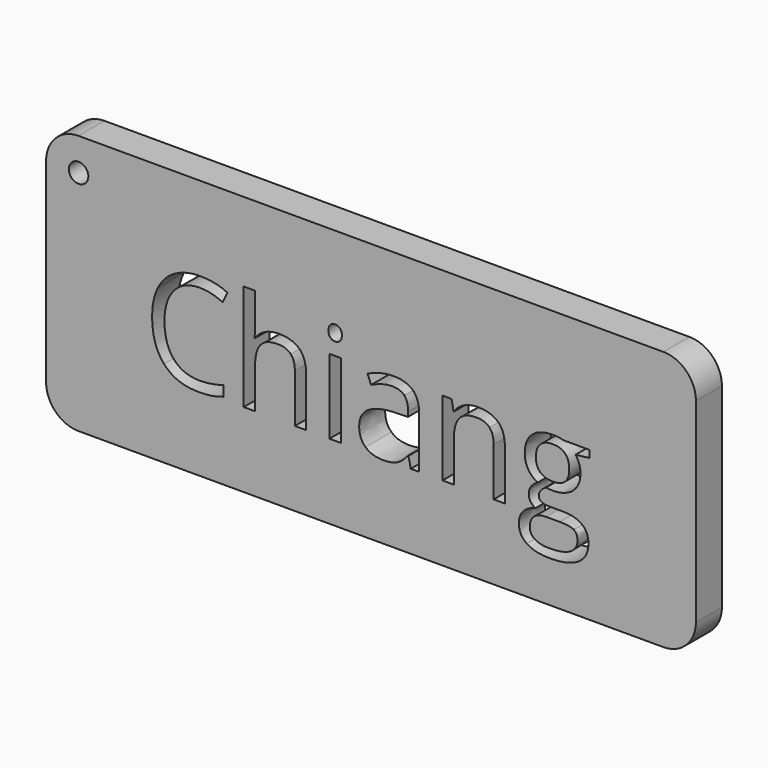
from build123d import *

# Parameters (mm, degrees)
F0_W     = 1.7432821497
F0_H     = 11.504318618
F0_R     = 1.5
F1_DEPTH = 5


with BuildPart() as f1:
    # F0 (on Front) → F1 (new body)
    with BuildSketch(Plane.XZ):
        with BuildLine():
            ThreePointArc((0, 5), (1.4644660941, 1.4644660941), (5, 0))
            Line((5, 0), (95, 0))
            ThreePointArc((95, 0), (98.5355339059, 1.4644660941), (100, 5))
            Line((100, 5), (100, 35))
            ThreePointArc((100, 35), (98.5355339059, 38.5355339059), (95, 40))
            Line((95, 40), (5, 40))
            ThreePointArc((5, 40), (1.4644660941, 38.5355339059), (0, 35))
            Line((0, 35), (0, 5))
        make_face()
        with BuildLine():
            add(Edge.make_bspline(
                [(27.1660268714, 24.6756238004), (25.4227447217, 25.4918426104), (23.679462572, 25.4918426104)],
                knots=[0, 0, 0, 1, 1, 1], degree=2))
            add(Edge.make_bspline(
                [(23.679462572, 25.4918426104), (21.1501919386, 25.4918426104), (19.6857005758, 23.8073416507)],
                knots=[0, 0, 0, 1, 1, 1], degree=2))
            add(Edge.make_bspline(
                [(19.6857005758, 23.8073416507), (18.2212092131, 22.122840691), (18.2212092131, 19.1938579655)],
                knots=[0, 0, 0, 1, 1, 1], degree=2))
            add(Edge.make_bspline(
                [(18.2212092131, 19.1938579655), (18.2212092131, 16.1842610365), (19.6336372361, 14.5400671785)],
                knots=[0, 0, 0, 1, 1, 1], degree=2))
            add(Edge.make_bspline(
                [(19.6336372361, 14.5400671785), (21.0460652591, 12.8958733205), (23.6593090211, 12.8958733205)],
                knots=[0, 0, 0, 1, 1, 1], degree=2))
            add(Edge.make_bspline(
                [(23.6593090211, 12.8958733205), (25.2648752399, 12.8958733205), (27.3238963532, 13.4736084453)],
                knots=[0, 0, 0, 1, 1, 1], degree=2))
            Line((27.3238963532, 13.4736084453), (27.3238963532, 11.9117082534))
            add(Edge.make_bspline(
                [(27.3238963532, 11.9117082534), (25.7284069098, 11.3104606526), (23.3872360845, 11.3104606526)],
                knots=[0, 0, 0, 1, 1, 1], degree=2))
            add(Edge.make_bspline(
                [(23.3872360845, 11.3104606526), (19.9980806142, 11.3104606526), (18.1557101727, 13.3694817658)],
                knots=[0, 0, 0, 1, 1, 1], degree=2))
            add(Edge.make_bspline(
                [(18.1557101727, 13.3694817658), (16.3133397313, 15.4285028791), (16.3133397313, 19.2173704415)],
                knots=[0, 0, 0, 1, 1, 1], degree=2))
            add(Edge.make_bspline(
                [(16.3133397313, 19.2173704415), (16.3133397313, 21.5887715931), (17.2000959693, 23.3723608445)],
                knots=[0, 0, 0, 1, 1, 1], degree=2))
            add(Edge.make_bspline(
                [(17.2000959693, 23.3723608445), (18.0868522073, 25.155950096), (19.7612763916, 26.1216410749)],
                knots=[0, 0, 0, 1, 1, 1], degree=2))
            add(Edge.make_bspline(
                [(19.7612763916, 26.1216410749), (21.4357005758, 27.0873320537), (23.702975048, 27.0873320537)],
                knots=[0, 0, 0, 1, 1, 1], degree=2))
            add(Edge.make_bspline(
                [(23.702975048, 27.0873320537), (26.1146833013, 27.0873320537), (27.9217850288, 26.207293666)],
                knots=[0, 0, 0, 1, 1, 1], degree=2))
            Line((27.9217850288, 26.207293666), (27.1660268714, 24.6756238004))
        make_face(mode=Mode.SUBTRACT)
        with BuildLine():
            Line((40.0273512476, 11.5220729367), (38.2840690979, 11.5220729367))
            Line((38.2840690979, 11.5220729367), (38.2840690979, 18.9654510557))
            add(Edge.make_bspline(
                [(38.2840690979, 18.9654510557), (38.2840690979, 20.3694817658), (37.644193858, 21.0630998081)],
                knots=[0, 0, 0, 1, 1, 1], degree=2))
            add(Edge.make_bspline(
                [(37.644193858, 21.0630998081), (37.004318618, 21.7567178503), (35.6372360845, 21.7567178503)],
                knots=[0, 0, 0, 1, 1, 1], degree=2))
            add(Edge.make_bspline(
                [(35.6372360845, 21.7567178503), (33.8234165067, 21.7567178503), (32.9887236084, 20.769193858)],
                knots=[0, 0, 0, 1, 1, 1], degree=2))
            add(Edge.make_bspline(
                [(32.9887236084, 20.769193858), (32.1540307102, 19.7816698656), (32.1540307102, 17.5379078695)],
                knots=[0, 0, 0, 1, 1, 1], degree=2))
            Line((32.1540307102, 17.5379078695), (32.1540307102, 11.5220729367))
            Line((32.1540307102, 11.5220729367), (30.4107485605, 11.5220729367))
            Line((30.4107485605, 11.5220729367), (30.4107485605, 27.8565259117))
            Line((30.4107485605, 27.8565259117), (32.1540307102, 27.8565259117))
            Line((32.1540307102, 27.8565259117), (32.1540307102, 22.9121880998))
            add(Edge.make_bspline(
                [(32.1540307102, 22.9121880998), (32.1540307102, 22.0187140115), (32.0700575816, 21.4309021113)],
                knots=[0, 0, 0, 1, 1, 1], degree=2))
            Line((32.0700575816, 21.4309021113), (32.174184261, 21.4309021113))
            add(Edge.make_bspline(
                [(32.174184261, 21.4309021113), (32.6880998081, 22.2605566219), (33.6386756238, 22.7375239923)],
                knots=[0, 0, 0, 1, 1, 1], degree=2))
            add(Edge.make_bspline(
                [(33.6386756238, 22.7375239923), (34.5892514395, 23.2144913628), (35.8051823417, 23.2144913628)],
                knots=[0, 0, 0, 1, 1, 1], degree=2))
            add(Edge.make_bspline(
                [(35.8051823417, 23.2144913628), (37.9145873321, 23.2144913628), (38.9709692898, 22.2118522073)],
                knots=[0, 0, 0, 1, 1, 1], degree=2))
            add(Edge.make_bspline(
                [(38.9709692898, 22.2118522073), (40.0273512476, 21.2092130518), (40.0273512476, 19.0259117083)],
                knots=[0, 0, 0, 1, 1, 1], degree=2))
            Line((40.0273512476, 19.0259117083), (40.0273512476, 11.5220729367))
        make_face(mode=Mode.SUBTRACT)
        with Locations((44.4762476008, 17.2742322457)):
            Rectangle(F0_W, F0_H, mode=Mode.SUBTRACT)
        with BuildLine():
            Line((57.4097888676, 11.5220729367), (56.1166026871, 11.5220729367))
            Line((56.1166026871, 11.5220729367), (55.7706333973, 13.1612284069))
            Line((55.7706333973, 13.1612284069), (55.6866602687, 13.1612284069))
            add(Edge.make_bspline(
                [(55.6866602687, 13.1612284069), (54.8267754319, 12.0796545106), (53.9719289827, 11.6950575816)],
                knots=[0, 0, 0, 1, 1, 1], degree=2))
            add(Edge.make_bspline(
                [(53.9719289827, 11.6950575816), (53.1170825336, 11.3104606526), (51.8339731286, 11.3104606526)],
                knots=[0, 0, 0, 1, 1, 1], degree=2))
            add(Edge.make_bspline(
                [(51.8339731286, 11.3104606526), (50.1242802303, 11.3104606526), (49.1535508637, 12.1938579655)],
                knots=[0, 0, 0, 1, 1, 1], degree=2))
            add(Edge.make_bspline(
                [(49.1535508637, 12.1938579655), (48.1828214971, 13.0772552783), (48.1828214971, 14.702975048)],
                knots=[0, 0, 0, 1, 1, 1], degree=2))
            add(Edge.make_bspline(
                [(48.1828214971, 14.702975048), (48.1828214971, 18.1861804223), (53.7552783109, 18.3541266795)],
                knots=[0, 0, 0, 1, 1, 1], degree=2))
            Line((53.7552783109, 18.3541266795), (55.7068138196, 18.4179462572))
            Line((55.7068138196, 18.4179462572), (55.7068138196, 19.1333973129))
            add(Edge.make_bspline(
                [(55.7068138196, 19.1333973129), (55.7068138196, 20.4870441459), (55.1257197697, 21.1319577735)],
                knots=[0, 0, 0, 1, 1, 1], degree=2))
            add(Edge.make_bspline(
                [(55.1257197697, 21.1319577735), (54.5446257198, 21.7768714012), (53.2615163148, 21.7768714012)],
                knots=[0, 0, 0, 1, 1, 1], degree=2))
            add(Edge.make_bspline(
                [(53.2615163148, 21.7768714012), (51.8238963532, 21.7768714012), (50.0100767754, 20.8968330134)],
                knots=[0, 0, 0, 1, 1, 1], degree=2))
            Line((50.0100767754, 20.8968330134), (49.4726487524, 22.2303262956))
            add(Edge.make_bspline(
                [(49.4726487524, 22.2303262956), (50.3224568138, 22.6904990403), (51.3351727447, 22.9524952015)],
                knots=[0, 0, 0, 1, 1, 1], degree=2))
            add(Edge.make_bspline(
                [(51.3351727447, 22.9524952015), (52.3478886756, 23.2144913628), (53.3690019194, 23.2144913628)],
                knots=[0, 0, 0, 1, 1, 1], degree=2))
            add(Edge.make_bspline(
                [(53.3690019194, 23.2144913628), (55.4246641075, 23.2144913628), (56.4172264875, 22.3025431862)],
                knots=[0, 0, 0, 1, 1, 1], degree=2))
            add(Edge.make_bspline(
                [(56.4172264875, 22.3025431862), (57.4097888676, 21.3905950096), (57.4097888676, 19.3752399232)],
                knots=[0, 0, 0, 1, 1, 1], degree=2))
            Line((57.4097888676, 19.3752399232), (57.4097888676, 11.5220729367))
        make_face(mode=Mode.SUBTRACT)
        with BuildLine():
            Line((70.6137236084, 11.5220729367), (68.8704414587, 11.5220729367))
            Line((68.8704414587, 11.5220729367), (68.8704414587, 18.9654510557))
            add(Edge.make_bspline(
                [(68.8704414587, 18.9654510557), (68.8704414587, 20.3694817658), (68.2305662188, 21.0630998081)],
                knots=[0, 0, 0, 1, 1, 1], degree=2))
            add(Edge.make_bspline(
                [(68.2305662188, 21.0630998081), (67.5906909789, 21.7567178503), (66.2236084453, 21.7567178503)],
                knots=[0, 0, 0, 1, 1, 1], degree=2))
            add(Edge.make_bspline(
                [(66.2236084453, 21.7567178503), (64.419865643, 21.7567178503), (63.580134357, 20.780950096)],
                knots=[0, 0, 0, 1, 1, 1], degree=2))
            add(Edge.make_bspline(
                [(63.580134357, 20.780950096), (62.740403071, 19.8051823417), (62.740403071, 17.5580614203)],
                knots=[0, 0, 0, 1, 1, 1], degree=2))
            Line((62.740403071, 17.5580614203), (62.740403071, 11.5220729367))
            Line((62.740403071, 11.5220729367), (60.9971209213, 11.5220729367))
            Line((60.9971209213, 11.5220729367), (60.9971209213, 23.0263915547))
            Line((60.9971209213, 23.0263915547), (62.4145873321, 23.0263915547))
            Line((62.4145873321, 23.0263915547), (62.6967370441, 21.4510556622))
            Line((62.6967370441, 21.4510556622), (62.7807101727, 21.4510556622))
            add(Edge.make_bspline(
                [(62.7807101727, 21.4510556622), (63.3181381958, 22.3008637236), (64.2838291747, 22.7694337812)],
                knots=[0, 0, 0, 1, 1, 1], degree=2))
            add(Edge.make_bspline(
                [(64.2838291747, 22.7694337812), (65.2495201536, 23.2380038388), (66.4352207294, 23.2380038388)],
                knots=[0, 0, 0, 1, 1, 1], degree=2))
            add(Edge.make_bspline(
                [(66.4352207294, 23.2380038388), (68.5143953935, 23.2380038388), (69.564059501, 22.2353646833)],
                knots=[0, 0, 0, 1, 1, 1], degree=2))
            add(Edge.make_bspline(
                [(69.564059501, 22.2353646833), (70.6137236084, 21.2327255278), (70.6137236084, 19.0259117083)],
                knots=[0, 0, 0, 1, 1, 1], degree=2))
            Line((70.6137236084, 19.0259117083), (70.6137236084, 11.5220729367))
        make_face(mode=Mode.SUBTRACT)
        with BuildLine():
            Line((79.6290786948, 23.0263915547), (83.6060460653, 23.0263915547))
            Line((83.6060460653, 23.0263915547), (83.6060460653, 21.9246641075))
            Line((83.6060460653, 21.9246641075), (81.476487524, 21.6727447217))
            add(Edge.make_bspline(
                [(81.476487524, 21.6727447217), (81.7687140115, 21.306621881), (82.0004798464, 20.7120921305)],
                knots=[0, 0, 0, 1, 1, 1], degree=2))
            add(Edge.make_bspline(
                [(82.0004798464, 20.7120921305), (82.2322456814, 20.11756238), (82.2322456814, 19.3752399232)],
                knots=[0, 0, 0, 1, 1, 1], degree=2))
            add(Edge.make_bspline(
                [(82.2322456814, 19.3752399232), (82.2322456814, 17.6823416507), (81.0767754319, 16.6746641075)],
                knots=[0, 0, 0, 1, 1, 1], degree=2))
            add(Edge.make_bspline(
                [(81.0767754319, 16.6746641075), (79.9213051823, 15.6669865643), (77.905950096, 15.6669865643)],
                knots=[0, 0, 0, 1, 1, 1], degree=2))
            add(Edge.make_bspline(
                [(77.905950096, 15.6669865643), (77.3920345489, 15.6669865643), (76.9419385797, 15.7509596929)],
                knots=[0, 0, 0, 1, 1, 1], degree=2))
            add(Edge.make_bspline(
                [(76.9419385797, 15.7509596929), (75.830134357, 15.1631477927), (75.830134357, 14.2730326296)],
                knots=[0, 0, 0, 1, 1, 1], degree=2))
            add(Edge.make_bspline(
                [(75.830134357, 14.2730326296), (75.830134357, 13.7994241843), (76.2180902111, 13.5743761996)],
                knots=[0, 0, 0, 1, 1, 1], degree=2))
            add(Edge.make_bspline(
                [(76.2180902111, 13.5743761996), (76.6060460653, 13.349328215), (77.5499040307, 13.349328215)],
                knots=[0, 0, 0, 1, 1, 1], degree=2))
            Line((77.5499040307, 13.349328215), (79.5854126679, 13.349328215))
            add(Edge.make_bspline(
                [(79.5854126679, 13.349328215), (81.4563339731, 13.349328215), (82.457293666, 12.5616602687)],
                knots=[0, 0, 0, 1, 1, 1], degree=2))
            add(Edge.make_bspline(
                [(82.457293666, 12.5616602687), (83.4582533589, 11.7739923225), (83.4582533589, 10.2725527831)],
                knots=[0, 0, 0, 1, 1, 1], degree=2))
            add(Edge.make_bspline(
                [(83.4582533589, 10.2725527831), (83.4582533589, 8.3613243762), (81.9265834933, 7.3586852207)],
                knots=[0, 0, 0, 1, 1, 1], degree=2))
            add(Edge.make_bspline(
                [(81.9265834933, 7.3586852207), (80.3949136276, 6.3560460653), (77.4558541267, 6.3560460653)],
                knots=[0, 0, 0, 1, 1, 1], degree=2))
            add(Edge.make_bspline(
                [(77.4558541267, 6.3560460653), (75.1986564299, 6.3560460653), (73.9760076775, 7.1957773512)],
                knots=[0, 0, 0, 1, 1, 1], degree=2))
            add(Edge.make_bspline(
                [(73.9760076775, 7.1957773512), (72.7533589251, 8.0355086372), (72.7533589251, 9.570537428)],
                knots=[0, 0, 0, 1, 1, 1], degree=2))
            add(Edge.make_bspline(
                [(72.7533589251, 9.570537428), (72.7533589251, 10.6185220729), (73.4251439539, 11.3860364683)],
                knots=[0, 0, 0, 1, 1, 1], degree=2))
            add(Edge.make_bspline(
                [(73.4251439539, 11.3860364683), (74.0969289827, 12.1535508637), (75.3128598848, 12.4256238004)],
                knots=[0, 0, 0, 1, 1, 1], degree=2))
            add(Edge.make_bspline(
                [(75.3128598848, 12.4256238004), (74.872840691, 12.6238003839), (74.5738963532, 13.0436660269)],
                knots=[0, 0, 0, 1, 1, 1], degree=2))
            add(Edge.make_bspline(
                [(74.5738963532, 13.0436660269), (74.2749520154, 13.4635316699), (74.2749520154, 14.0211132438)],
                knots=[0, 0, 0, 1, 1, 1], degree=2))
            add(Edge.make_bspline(
                [(74.2749520154, 14.0211132438), (74.2749520154, 14.6492322457), (74.6108445298, 15.122840691)],
                knots=[0, 0, 0, 1, 1, 1], degree=2))
            add(Edge.make_bspline(
                [(74.6108445298, 15.122840691), (74.9467370441, 15.5964491363), (75.6722648752, 16.0364683301)],
                knots=[0, 0, 0, 1, 1, 1], degree=2))
            add(Edge.make_bspline(
                [(75.6722648752, 16.0364683301), (74.7787907869, 16.4025911708), (74.2178502879, 17.2843090211)],
                knots=[0, 0, 0, 1, 1, 1], degree=2))
            add(Edge.make_bspline(
                [(74.2178502879, 17.2843090211), (73.6569097889, 18.1660268714), (73.6569097889, 19.3013435701)],
                knots=[0, 0, 0, 1, 1, 1], degree=2))
            add(Edge.make_bspline(
                [(73.6569097889, 19.3013435701), (73.6569097889, 21.189059501), (74.790547025, 22.2135316699)],
                knots=[0, 0, 0, 1, 1, 1], degree=2))
            add(Edge.make_bspline(
                [(74.790547025, 22.2135316699), (75.924184261, 23.2380038388), (78, 23.2380038388)],
                knots=[0, 0, 0, 1, 1, 1], degree=2))
            add(Edge.make_bspline(
                [(78, 23.2380038388), (78.9035508637, 23.2380038388), (79.6290786948, 23.0263915547)],
                knots=[0, 0, 0, 1, 1, 1], degree=2))
        make_face(mode=Mode.SUBTRACT)
        with BuildLine():
            add(Edge.make_bspline(
                [(43.7507197697, 25.2667946257), (43.4568138196, 25.5556621881), (43.4568138196, 26.1434740883)],
                knots=[0, 0, 0, 1, 1, 1], degree=2))
            add(Edge.make_bspline(
                [(43.4568138196, 26.1434740883), (43.4568138196, 26.7413627639), (43.7507197697, 27.0201535509)],
                knots=[0, 0, 0, 1, 1, 1], degree=2))
            add(Edge.make_bspline(
                [(43.7507197697, 27.0201535509), (44.0446257198, 27.2989443378), (44.4880038388, 27.2989443378)],
                knots=[0, 0, 0, 1, 1, 1], degree=2))
            add(Edge.make_bspline(
                [(44.4880038388, 27.2989443378), (44.9078694818, 27.2989443378), (45.2118522073, 27.0151151631)],
                knots=[0, 0, 0, 1, 1, 1], degree=2))
            add(Edge.make_bspline(
                [(45.2118522073, 27.0151151631), (45.5158349328, 26.7312859885), (45.5158349328, 26.1434740883)],
                knots=[0, 0, 0, 1, 1, 1], degree=2))
            add(Edge.make_bspline(
                [(45.5158349328, 26.1434740883), (45.5158349328, 25.5556621881), (45.2118522073, 25.2667946257)],
                knots=[0, 0, 0, 1, 1, 1], degree=2))
            add(Edge.make_bspline(
                [(45.2118522073, 25.2667946257), (44.9078694818, 24.9779270633), (44.4880038388, 24.9779270633)],
                knots=[0, 0, 0, 1, 1, 1], degree=2))
            add(Edge.make_bspline(
                [(44.4880038388, 24.9779270633), (44.0446257198, 24.9779270633), (43.7507197697, 25.2667946257)],
                knots=[0, 0, 0, 1, 1, 1], degree=2))
        make_face(mode=Mode.SUBTRACT)
        with Locations((5, 35)):
            Circle(F0_R, mode=Mode.SUBTRACT)
    extrude(amount=F1_DEPTH)


with BuildPart() as f1b:
    # F0 (on Front) → F1, piece 2 (new body)
    with BuildSketch(Plane.XZ):
        with BuildLine():
            add(Edge.make_bspline(
                [(76.0383877159, 21.3049424184), (75.3766794626, 20.6449136276), (75.3766794626, 19.3416506718)],
                knots=[0, 0, 0, 1, 1, 1], degree=2))
            add(Edge.make_bspline(
                [(75.3766794626, 19.3416506718), (75.3766794626, 18.1357965451), (76.0585412668, 17.516074856)],
                knots=[0, 0, 0, 1, 1, 1], degree=2))
            add(Edge.make_bspline(
                [(76.0585412668, 17.516074856), (76.740403071, 16.896353167), (77.9596928983, 16.896353167)],
                knots=[0, 0, 0, 1, 1, 1], degree=2))
            add(Edge.make_bspline(
                [(77.9596928983, 16.896353167), (80.5091170825, 16.896353167), (80.5091170825, 19.3752399232)],
                knots=[0, 0, 0, 1, 1, 1], degree=2))
            add(Edge.make_bspline(
                [(80.5091170825, 19.3752399232), (80.5091170825, 21.9649712092), (77.929462572, 21.9649712092)],
                knots=[0, 0, 0, 1, 1, 1], degree=2))
            add(Edge.make_bspline(
                [(77.929462572, 21.9649712092), (76.7000959693, 21.9649712092), (76.0383877159, 21.3049424184)],
                knots=[0, 0, 0, 1, 1, 1], degree=2))
        make_face()
    extrude(amount=F1_DEPTH)


with BuildPart() as f1c:
    # F0 (on Front) → F1, piece 3 (new body)
    with BuildSketch(Plane.XZ):
        with BuildLine():
            add(Edge.make_bspline(
                [(75.0945297505, 11.2180902111), (74.4328214971, 10.6521113244), (74.4328214971, 9.5906909789)],
                knots=[0, 0, 0, 1, 1, 1], degree=2))
            add(Edge.make_bspline(
                [(74.4328214971, 9.5906909789), (74.4328214971, 8.6569097889), (75.2204894434, 8.1732245681)],
                knots=[0, 0, 0, 1, 1, 1], degree=2))
            add(Edge.make_bspline(
                [(75.2204894434, 8.1732245681), (76.0081573896, 7.6895393474), (77.4760076775, 7.6895393474)],
                knots=[0, 0, 0, 1, 1, 1], degree=2))
            add(Edge.make_bspline(
                [(77.4760076775, 7.6895393474), (79.6693857965, 7.6895393474), (80.7240882917, 8.3462092131)],
                knots=[0, 0, 0, 1, 1, 1], degree=2))
            add(Edge.make_bspline(
                [(80.7240882917, 8.3462092131), (81.7787907869, 9.0028790787), (81.7787907869, 10.1247600768)],
                knots=[0, 0, 0, 1, 1, 1], degree=2))
            add(Edge.make_bspline(
                [(81.7787907869, 10.1247600768), (81.7787907869, 11.0585412668), (81.2027351248, 11.4213051823)],
                knots=[0, 0, 0, 1, 1, 1], degree=2))
            add(Edge.make_bspline(
                [(81.2027351248, 11.4213051823), (80.6266794626, 11.7840690979), (79.0311900192, 11.7840690979)],
                knots=[0, 0, 0, 1, 1, 1], degree=2))
            Line((79.0311900192, 11.7840690979), (76.9419385797, 11.7840690979))
            add(Edge.make_bspline(
                [(76.9419385797, 11.7840690979), (75.7562380038, 11.7840690979), (75.0945297505, 11.2180902111)],
                knots=[0, 0, 0, 1, 1, 1], degree=2))
        make_face()
    extrude(amount=F1_DEPTH)


solid = Compound([f1.part, f1b.part, f1c.part])
